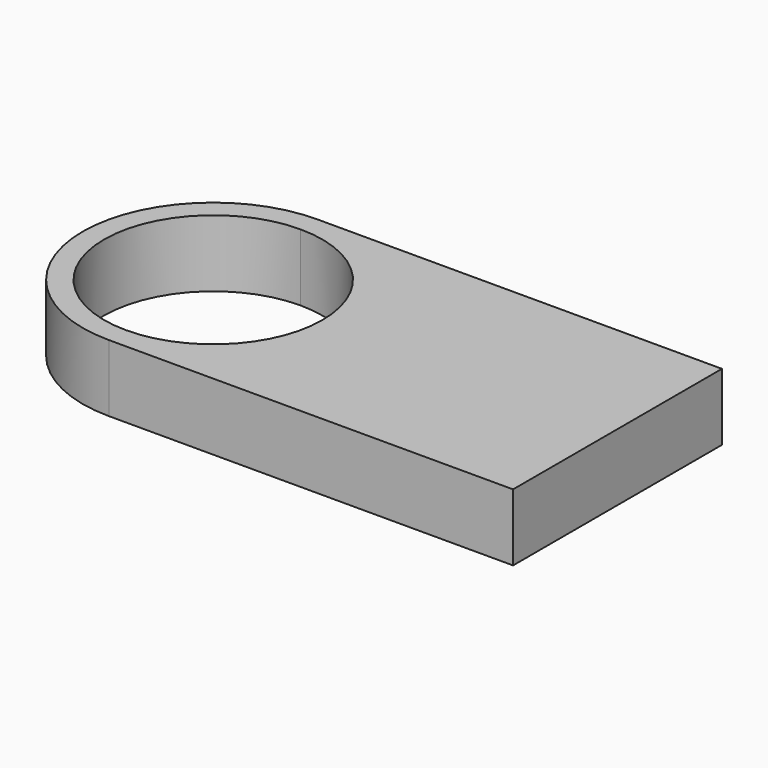
from build123d import *

# Parameters (mm, degrees)
F1_DEPTH = 25


with BuildPart() as f1:
    # F0 (on Top) → F1 (new body)
    with BuildSketch(Plane.XY):
        with BuildLine():
            Line((-75.442836, 40.737952), (-75.442836, 48.72321))
            ThreePointArc((-75.442836, 48.72321), (-124.166046, 0), (-75.442836, -48.72321))
            Line((-75.442836, -48.72321), (-75.442836, -40.737952))
            ThreePointArc((-75.442836, -40.737952), (-116.180788, 0), (-75.442836, 40.737952))
        make_face()
        with BuildLine():
            ThreePointArc((-26.719625, 0), (-40.990323, 34.452512), (-75.442836, 48.72321))
            Line((-75.442836, 48.72321), (-75.442836, 40.737952))
            ThreePointArc((-75.442836, 40.737952), (-46.636754, 28.806082), (-34.704884, 0))
            ThreePointArc((-34.704884, 0), (-46.636754, -28.806082), (-75.442836, -40.737952))
            Line((-75.442836, -40.737952), (-75.442836, -48.72321))
            ThreePointArc((-75.442836, -48.72321), (-40.990323, -34.452512), (-26.719625, 0))
        make_face()
        with BuildLine():
            Line((75.442836, 48.72321), (-75.442836, 48.72321))
            ThreePointArc((-75.442836, 48.72321), (-40.990323, 34.452512), (-26.719625, 0))
            ThreePointArc((-26.719625, 0), (-40.990323, -34.452512), (-75.442836, -48.72321))
            Line((-75.442836, -48.72321), (75.442836, -48.72321))
            Line((75.442836, -48.72321), (75.442836, 48.72321))
        make_face()
    extrude(amount=-F1_DEPTH)


solid = f1.part
